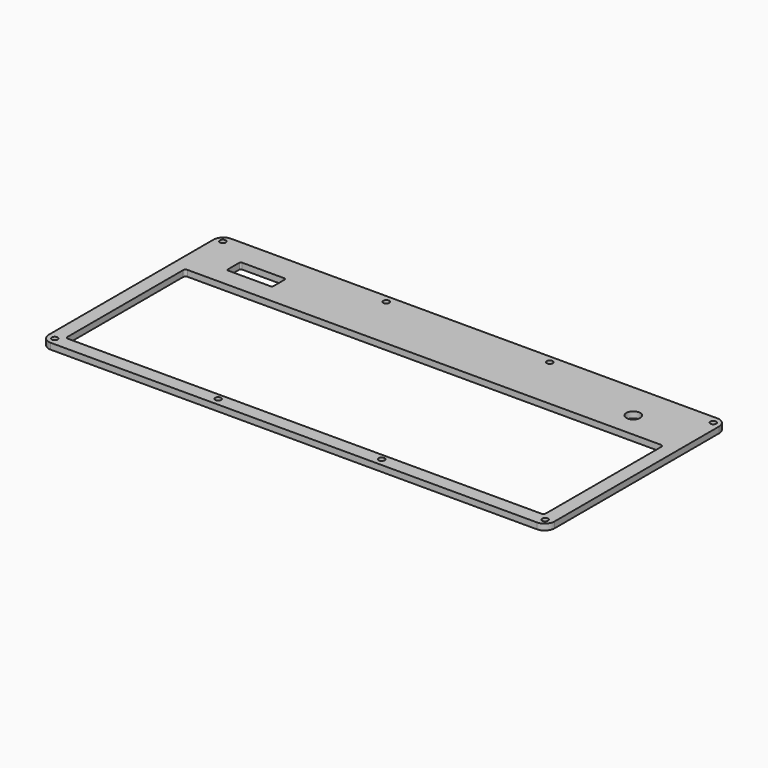
from build123d import *

# Parameters (mm, degrees)
SKETCH_W        = 263.525
SKETCH_H        = 117.475
PAD_DEPTH       = 3.175
SKETCH002_W     = 249.2375
SKETCH002_H     = 77.7875
POCKET_DEPTH    = 3.176
SKETCH003_R     = 3.6
POCKET001_DEPTH = 3.176
SKETCH001_R     = 1.5494
HOLE_DEPTH      = 3.176
FILLET_R        = 5.08
FILLET001_R     = 1.27
SKETCH004_W     = 23.715193
SKETCH004_H     = 9.0125
POCKET002_DEPTH = 3.176
FILLET002_R     = 0.79375


with BuildPart() as part:
    # Sketch → Pad (new body)
    with BuildSketch(Plane.XY):
        Rectangle(SKETCH_W, SKETCH_H)
    extrude(amount=PAD_DEPTH)

    # Sketch002 (on Face6 of Pad) → Pocket (cut, through all)
    with BuildSketch(Plane.XY.offset(3.175)):
        with Locations((0, -12.7)):
            Rectangle(SKETCH002_W, SKETCH002_H)
    extrude(amount=-POCKET_DEPTH, mode=Mode.SUBTRACT)

    # Sketch003 (on Face5 of Pocket) → Pocket001 (cut, through all)
    with BuildSketch(Plane.XY.offset(3.175)):
        with Locations((98.425, 39.37)):
            Circle(SKETCH003_R)
    extrude(amount=-POCKET001_DEPTH, mode=Mode.SUBTRACT)

    # Sketch001 (on Face6 of Pad) → Hole (cut, through all)
    with BuildSketch(Plane.XY.offset(3.175)):
        with Locations((-42.597917, 54.76875)):
            Circle(SKETCH001_R)
        with Locations((42.597917, 54.76875)):
            Circle(SKETCH001_R)
        with Locations((42.597917, -54.76875)):
            Circle(SKETCH001_R)
        with Locations((-42.597917, -54.76875)):
            Circle(SKETCH001_R)
        with Locations((-127.79375, -54.76875)):
            Circle(SKETCH001_R)
        with Locations((-127.79375, 54.76875)):
            Circle(SKETCH001_R)
        with Locations((127.79375, 54.76875)):
            Circle(SKETCH001_R)
        with Locations((127.79375, -54.76875)):
            Circle(SKETCH001_R)
    extrude(amount=-HOLE_DEPTH, mode=Mode.SUBTRACT)

    # Fillet
    fillet_edges = [part.edges().sort_by_distance(p)[0] for p in [
        (-131.7625, 58.7375, 1.5875),
        (-131.7625, -58.7375, 1.5875),
        (131.7625, -58.7375, 1.5875),
        (131.7625, 58.7375, 1.5875),
    ]]
    fillet(fillet_edges, radius=FILLET_R)

    # Fillet001
    fillet001_edges = [part.edges().sort_by_distance(p)[0] for p in [
        (-124.61875, -51.59375, 1.5875),
        (-124.61875, 26.19375, 1.5875),
        (124.61875, 26.19375, 1.5875),
        (124.61875, -51.59375, 1.5875),
    ]]
    fillet(fillet001_edges, radius=FILLET001_R)

    # Sketch004 (on Face5 of Pocket001) → Pocket002 (cut, through all)
    with BuildSketch(Plane.XY.offset(3.175)):
        with Locations((-98.975303, 40.54573)):
            Rectangle(SKETCH004_W, SKETCH004_H)
    extrude(amount=-POCKET002_DEPTH, mode=Mode.SUBTRACT)

    # Fillet002
    fillet002_edges = [part.edges().sort_by_distance(p)[0] for p in [
        (-110.8329, 45.05198, 1.5875),
        (-87.117707, 45.05198, 1.5875),
        (-87.117707, 36.03948, 1.5875),
        (-110.8329, 36.03948, 1.5875),
    ]]
    fillet(fillet002_edges, radius=FILLET002_R)


solid = part.part
